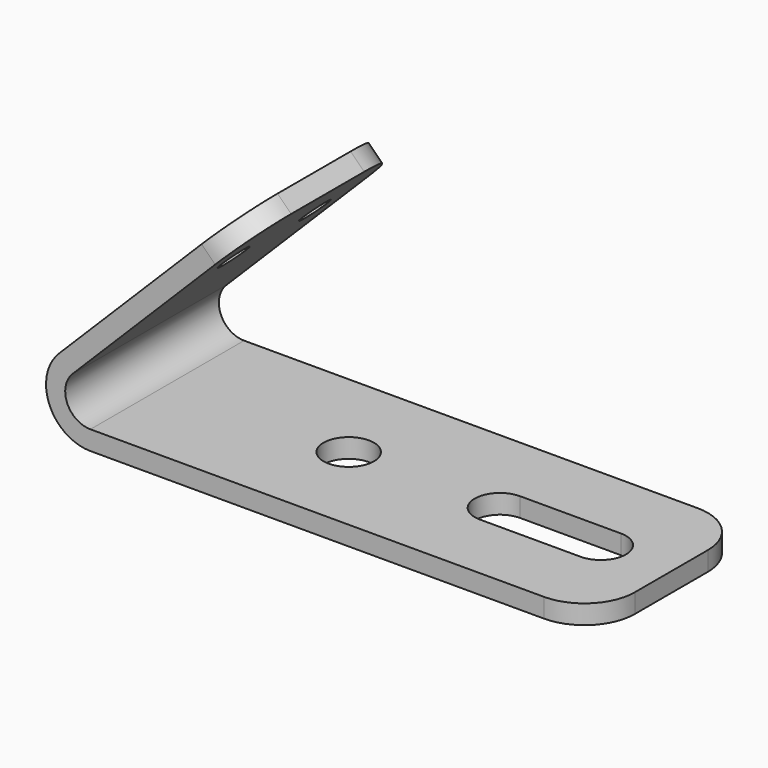
from build123d import *

# Parameters (mm, degrees)
F1_DEPTH = 483.87
F2_R     = 63.5
F3_DEPTH = 48.26
F4_R     = 127
F5_R     = 38.1
F6_DEPTH = 48.26


with BuildPart() as f1:
    # F0 (on Front) → F1 (new body)
    with BuildSketch(Plane.XZ):
        with BuildLine():
            Line((865.8884745519, -48.26), (865.8884745519, 0))
            Line((865.8884745519, 0), (-404.1115254481, 0))
            ThreePointArc((-404.1115254481, 0), (-462.7778757626, 39.1996020448), (-449.0128060535, 108.4012806053))
            Line((-449.0128060535, 108.4012806053), (0, 557.4140866588))
            Line((0, 557.4140866588), (-34.1249732601, 591.5390599189))
            Line((-34.1249732601, 591.5390599189), (-483.1377793135, 142.5262538654))
            ThreePointArc((-483.1377793135, 142.5262538654), (-507.3643020016, 20.7312995989), (-404.1115254481, -48.26))
            Line((-404.1115254481, -48.26), (865.8884745519, -48.26))
        make_face()
    extrude(amount=F1_DEPTH)

    # F2 (on face) → F3 (cut)
    with BuildSketch(Plane.XY):
        with Locations((53.0884745519, -241.935)):
            Circle(F2_R)
        with BuildLine():
            Line((688.0884745519, -178.435), (434.0884745519, -178.435))
            ThreePointArc((434.0884745519, -178.435), (370.5884745519, -241.935), (434.0884745519, -305.435))
            Line((434.0884745519, -305.435), (688.0884745519, -305.435))
            ThreePointArc((688.0884745519, -305.435), (751.5884745519, -241.935), (688.0884745519, -178.435))
        make_face()
    extrude(amount=-F3_DEPTH, mode=Mode.SUBTRACT)

    # F4
    f4_edges = [f1.edges().sort_by_distance(p)[0] for p in [
        (865.888475, 0, -24.13),
        (865.888475, -483.87, -24.13),
        (-17.062487, 0, 574.476573),
        (-17.062487, -483.87, 574.476573),
    ]]
    fillet(f4_edges, radius=F4_R)

    # F5 (on face) → F6 (cut)
    with BuildSketch(Plane(origin=(-312.8320165895, 0, 312.8320165895), x_dir=(0.7071067812, 0, 0.7071067812), z_dir=(-0.7071067812, 0, 0.7071067812))):
        with Locations((203.6512806053, -114.3)):
            Circle(F5_R)
        with Locations((203.6512806053, -369.57)):
            Circle(F5_R)
    extrude(amount=-F6_DEPTH, mode=Mode.SUBTRACT)


solid = f1.part
